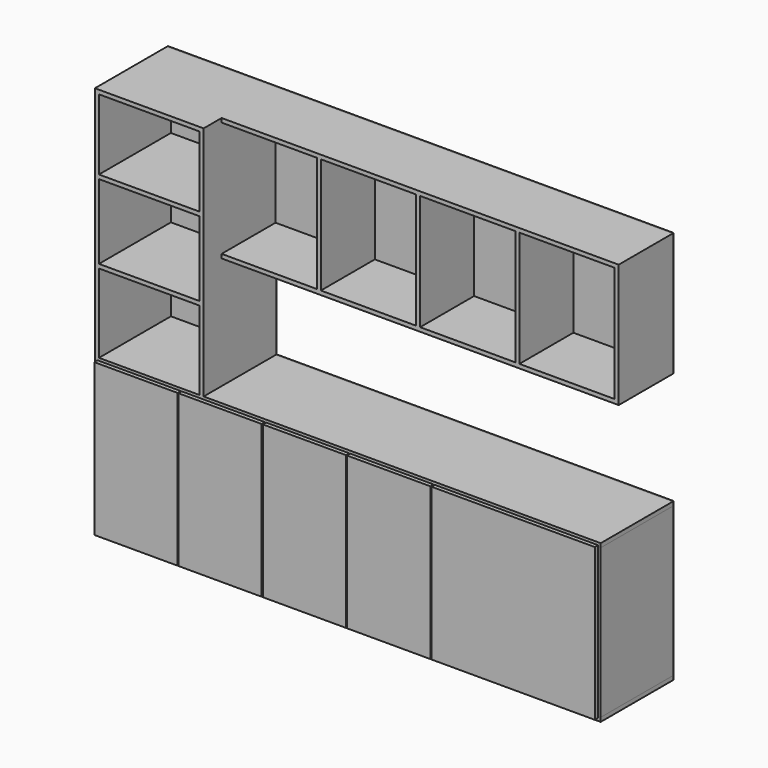
from build123d import *

# Parameters (mm, degrees)
F1_DEPTH  = 400
F2_DEPTH  = 400
F3_DEPTH  = 400
F0_W      = 18
F0_H      = 664
F4_DEPTH  = 400
F5_DEPTH  = 400
F0_W_2    = 732
F0_H_2    = 18
F6_DEPTH  = 400
F7_DEPTH  = 400
F8_DEPTH  = 400
F9_DEPTH  = 400
F10_DEPTH = 400
F11_W     = 2250
F11_H     = 700
F12_DEPTH = 6
F13_W     = 370.7625
F13_H     = 676.7
F14_DEPTH = 18
F15_W     = 726.7
F15_H     = 676.7
F16_DEPTH = 18
F17_W     = 447.6132079363
F17_H     = 18
F18_DEPTH = 400
F17_W_2   = 18
F17_H_2   = 514
F19_DEPTH = 300
F21_DEPTH = 6


with BuildPart() as f1:
    # F0 (on Front) → F1 (new body)
    with BuildSketch(Plane.XZ):
        Polygon((993.3621138334, 283.330530931), (-1256.6378861666, 283.330530931), (-1256.6378861666, 265.330530931), (-1238.6378861666, 265.330530931), (-506.6378861666, 265.330530931), (-488.6378861666, 265.330530931), (243.3621138334, 265.330530931), (261.3621138334, 265.330530931), (975.3621138334, 265.330530931), (993.3621138334, 265.330530931), align=None)
    extrude(amount=F1_DEPTH)

    # F17 (on face) → F18 (join)
    with BuildSketch(Plane.XZ):
        Polygon((-1256.6378861666, 630.8754682541), (-1256.6378861666, 283.330530931), (-1238.6378861666, 283.330530931), (-1238.6378861666, 630.8754682541), (-1238.6378861666, 633.330530931), (-1238.6378861666, 651.330530931), (-1238.6378861666, 983.330530931), (-1238.6378861666, 1001.330530931), (-1238.6378861666, 1315.330530931), (-1238.6378861666, 1333.330530931), (-1256.6378861666, 1333.330530931), align=None)
        with Locations((-1014.8312821984, 1324.330530931)):
            Rectangle(F17_W, F17_H)
        Polygon((-791.0246782303, 301.330530931), (-791.0246782303, 283.330530931), (-773.0246782303, 283.330530931), (-773.0246782303, 301.330530931), (-773.0246782303, 783.330530931), (-773.0246782303, 801.330530931), (-773.0246782303, 1315.330530931), (-773.0246782303, 1333.330530931), (-791.0246782303, 1333.330530931), (-791.0246782303, 1315.330530931), (-791.0246782303, 1001.330530931), (-791.0246782303, 983.330530931), (-791.0246782303, 651.330530931), (-791.0246782303, 633.330530931), align=None)
        with Locations((-1014.8312821984, 992.330530931)):
            Rectangle(F17_W, F17_H)
        with Locations((-1014.8312821984, 642.330530931)):
            Rectangle(F17_W, F17_H)
    extrude(amount=F18_DEPTH)

    # F17 (on face) → F19 (join)
    with BuildSketch(Plane.XZ):
        Polygon((110.1687178016, 1333.330530931), (-773.0246782303, 1333.330530931), (-773.0246782303, 1315.330530931), (-349.4279802144, 1315.330530931), (-331.4279802144, 1315.330530931), (92.1687178016, 1315.330530931), (110.1687178016, 1315.330530931), (533.7654158175, 1315.330530931), (551.7654158175, 1315.330530931), (975.3621138334, 1315.330530931), (993.3621138334, 1315.330530931), (993.3621138334, 1333.330530931), align=None)
        Polygon((975.3621138334, 783.330530931), (993.3621138334, 783.330530931), (993.3621138334, 801.330530931), (975.3621138334, 801.330530931), (551.7654158175, 801.330530931), (533.7654158175, 801.330530931), (110.1687178016, 801.330530931), (92.1687178016, 801.330530931), (-331.4279802144, 801.330530931), (-349.4279802144, 801.330530931), (-773.0246782303, 801.330530931), (-773.0246782303, 783.330530931), (110.1687178016, 783.330530931), align=None)
        with Locations((-340.4279802144, 1058.330530931)):
            Rectangle(F17_W_2, F17_H_2)
        with Locations((101.1687178016, 1058.330530931)):
            Rectangle(F17_W_2, F17_H_2)
        with Locations((542.7654158175, 1058.330530931)):
            Rectangle(F17_W_2, F17_H_2)
        with Locations((984.3621138334, 1058.330530931)):
            Rectangle(F17_W_2, F17_H_2)
    extrude(amount=F19_DEPTH)


with BuildPart() as f2:
    # F0 (on Front) → F2 (new body)
    with BuildSketch(Plane.XZ):
        Polygon((-1238.6378861666, -398.669469069), (-1256.6378861666, -398.669469069), (-1256.6378861666, -416.669469069), (993.3621138334, -416.669469069), (993.3621138334, -398.669469069), (975.3621138334, -398.669469069), (261.3621138334, -398.669469069), (243.3621138334, -398.669469069), (-488.6378861666, -398.669469069), (-506.6378861666, -398.669469069), align=None)
    extrude(amount=F2_DEPTH)


with BuildPart() as f3:
    # F0 (on Front) → F3 (new body)
    with BuildSketch(Plane.XZ):
        Polygon((-1238.6378861666, 265.330530931), (-1256.6378861666, 265.330530931), (-1256.6378861666, -398.669469069), (-1238.6378861666, -398.669469069), (-1238.6378861666, -215.1148997545), (-1238.6378861666, -197.1148997545), (-1238.6378861666, 39.5995929539), (-1238.6378861666, 57.5995929539), align=None)
    extrude(amount=F3_DEPTH)


with BuildPart() as f4:
    # F0 (on Front) → F4 (new body)
    with BuildSketch(Plane.XZ):
        with Locations((984.3621138334, -66.669469069)):
            Rectangle(F0_W, F0_H)
    extrude(amount=F4_DEPTH)


with BuildPart() as f5:
    # F0 (on Front) → F5 (new body)
    with BuildSketch(Plane.XZ):
        Polygon((-488.6378861666, 265.330530931), (-506.6378861666, 265.330530931), (-506.6378861666, 57.5995929539), (-506.6378861666, 39.5995929539), (-506.6378861666, -197.1148997545), (-506.6378861666, -215.1148997545), (-506.6378861666, -398.669469069), (-488.6378861666, -398.669469069), (-488.6378861666, -215.1148997545), (-488.6378861666, -197.1148997545), (-488.6378861666, 39.5995929539), (-488.6378861666, 57.5995929539), align=None)
    extrude(amount=F5_DEPTH)


with BuildPart() as f6:
    # F0 (on Front) → F6 (new body)
    with BuildSketch(Plane.XZ):
        with Locations((-872.6378861666, -206.1148997545)):
            Rectangle(F0_W_2, F0_H_2)
    extrude(amount=F6_DEPTH)


with BuildPart() as f7:
    # F0 (on Front) → F7 (new body)
    with BuildSketch(Plane.XZ):
        with Locations((-872.6378861666, 48.5995929539)):
            Rectangle(F0_W_2, F0_H_2)
    extrude(amount=F7_DEPTH)


with BuildPart() as f8:
    # F0 (on Front) → F8 (new body)
    with BuildSketch(Plane.XZ):
        with Locations((-122.6378861666, 48.5995929539)):
            Rectangle(F0_W_2, F0_H_2)
    extrude(amount=F8_DEPTH)


with BuildPart() as f9:
    # F0 (on Front) → F9 (new body)
    with BuildSketch(Plane.XZ):
        with Locations((-122.6378861666, -206.1148997545)):
            Rectangle(F0_W_2, F0_H_2)
    extrude(amount=F9_DEPTH)


with BuildPart() as f10:
    # F0 (on Front) → F10 (new body)
    with BuildSketch(Plane.XZ):
        Polygon((261.3621138334, -398.669469069), (261.3621138334, 265.330530931), (243.3621138334, 265.330530931), (243.3621138334, 57.5995929539), (243.3621138334, 39.5995929539), (243.3621138334, -197.1148997545), (243.3621138334, -215.1148997545), (243.3621138334, -398.669469069), align=None)
    extrude(amount=F10_DEPTH)


with BuildPart() as f12:
    # F11 (on face) → F12 (new body)
    with BuildSketch(Plane(origin=(0, 0, 0), x_dir=(-1, 0, 0), z_dir=(0, 1, 0))):
        with Locations((131.6378861666, -66.669469069)):
            Rectangle(F11_W, F11_H)
    extrude(amount=F12_DEPTH)


with BuildPart() as f14:
    # F13 (on face) → F14 (new body)
    with BuildSketch(Plane.XZ.offset(400)):
        with Locations((-1059.6066361666, -66.669469069)):
            Rectangle(F13_W, F13_H)
    extrude(amount=F14_DEPTH)


with BuildPart() as f14b:
    # F13 (on face) → F14, piece 2 (new body)
    with BuildSketch(Plane.XZ.offset(400)):
        with Locations((-685.6691361666, -66.669469069)):
            Rectangle(F13_W, F13_H)
    extrude(amount=F14_DEPTH)


with BuildPart() as f14c:
    # F13 (on face) → F14, piece 3 (new body)
    with BuildSketch(Plane.XZ.offset(400)):
        with Locations((-309.6066361666, -66.669469069)):
            Rectangle(F13_W, F13_H)
    extrude(amount=F14_DEPTH)


with BuildPart() as f14d:
    # F13 (on face) → F14, piece 4 (new body)
    with BuildSketch(Plane.XZ.offset(400)):
        with Locations((64.3308638334, -66.669469069)):
            Rectangle(F13_W, F13_H)
    extrude(amount=F14_DEPTH)


with BuildPart() as f16:
    # F15 (on face) → F16 (new body)
    with BuildSketch(Plane.XZ.offset(400)):
        with Locations((618.3621138334, -66.669469069)):
            Rectangle(F15_W, F15_H)
    extrude(amount=F16_DEPTH)


with BuildPart() as f21:
    # F20 (on face) → F21 (new body)
    with BuildSketch(Plane(origin=(0, 0, 0), x_dir=(-1, 0, 0), z_dir=(0, 1, 0))):
        Polygon((1256.6378861666, 1333.330530931), (-993.3621138334, 1333.330530931), (-993.3621138334, 783.330530931), (773.0246782303, 783.330530931), (773.0246782303, 283.330530931), (1238.6378861666, 283.330530931), align=None)
    extrude(amount=F21_DEPTH)


solid = Compound([f1.part, f2.part, f3.part, f4.part, f5.part, f6.part, f7.part, f8.part, f9.part, f10.part, f12.part, f14.part, f14b.part, f14c.part, f14d.part, f16.part, f21.part])
